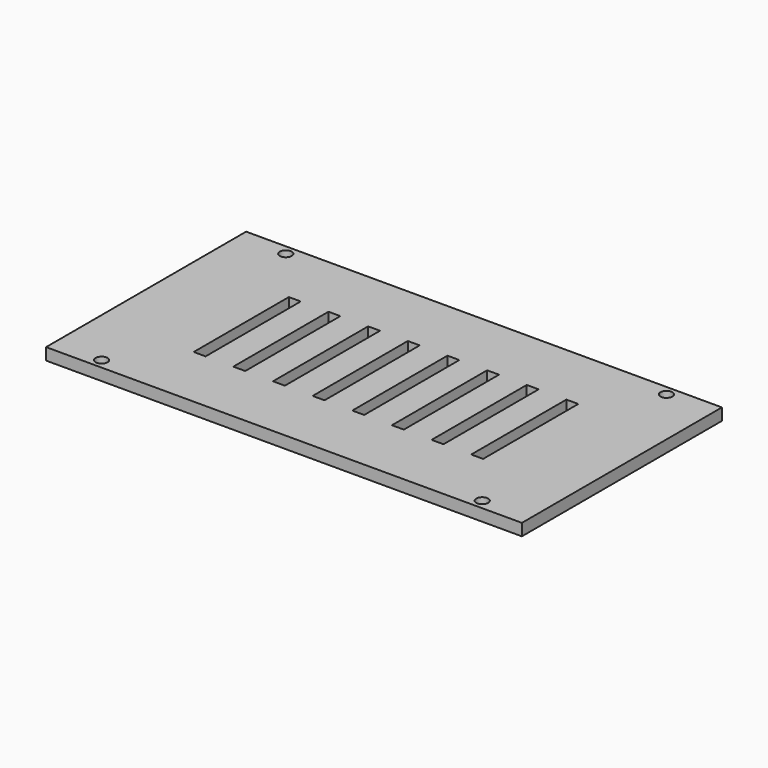
from build123d import *

# Parameters (mm, degrees)
F0_W     = 120
F0_H     = 63.066
F1_DEPTH = 3
F3_D     = 3
F4_W     = 3
F4_H     = 30
F5_DEPTH = 3.001


with BuildPart() as f1:
    # F0 (on Top) → F1 (new body)
    with BuildSketch(Plane.XY):
        Rectangle(F0_W, F0_H)
    extrude(amount=F1_DEPTH)

    # F3 (through all)
    with Locations(Plane.XY.offset(3)):
        with Locations((-48, 29.033), (48, 29.033), (48, -29.033), (-48, -29.033)):
            Hole(F3_D / 2)

    # F4 (on face) → F5 (cut, through all)
    with BuildSketch(Plane.XY.offset(3)):
        with Locations((-34.4999431167, 0)):
            Rectangle(F4_W, F4_H)
        with Locations((-24.4999431167, 0)):
            Rectangle(F4_W, F4_H)
        with Locations((-14.4999431167, 0)):
            Rectangle(F4_W, F4_H)
        with Locations((5.5000568833, 0)):
            Rectangle(F4_W, F4_H)
        with Locations((-4.4999431167, 0)):
            Rectangle(F4_W, F4_H)
        with Locations((15.5000568833, 0)):
            Rectangle(F4_W, F4_H)
        with Locations((25.5000568833, 0)):
            Rectangle(F4_W, F4_H)
        with Locations((35.5000568833, 0)):
            Rectangle(F4_W, F4_H)
    extrude(amount=-F5_DEPTH, mode=Mode.SUBTRACT)


solid = f1.part
